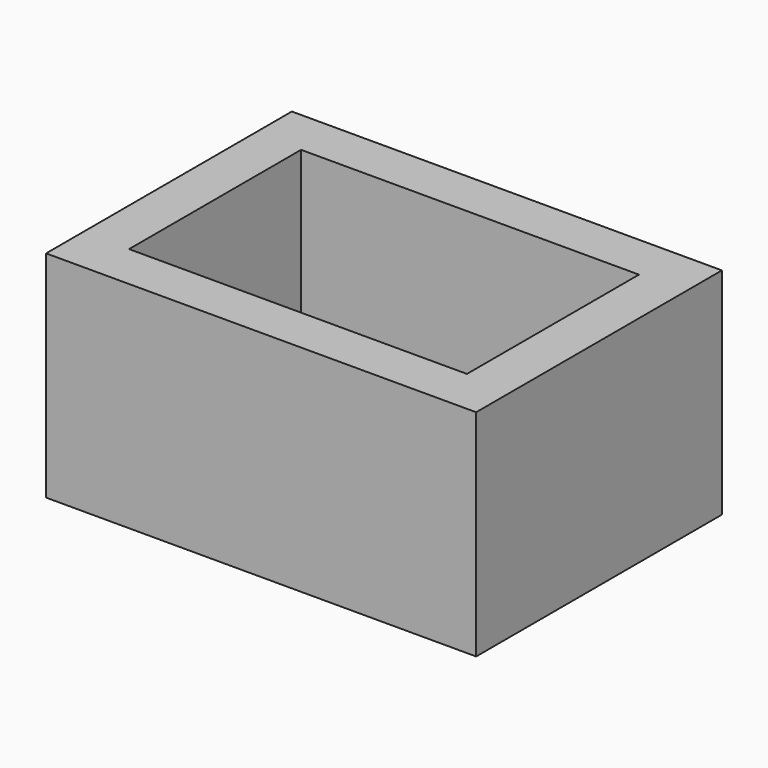
from build123d import *

# Parameters (mm, degrees)
F1_DEPTH = 88.9
F0_W     = 19.05
F0_H     = 88.9
F2_DEPTH = 88.9


with BuildPart() as f1:
    # F0 (on Top) → F1 (new body)
    with BuildSketch(Plane.XY):
        Polygon((88.9, 63.5), (-88.9, 63.5), (-88.9, 44.45), (-69.85, 44.45), (69.85, 44.45), (88.9, 44.45), align=None)
        Polygon((-69.85, -44.45), (-88.9, -44.45), (-88.9, -63.5), (88.9, -63.5), (88.9, -44.45), (69.85, -44.45), align=None)
    extrude(amount=F1_DEPTH)

    # F0 (on Top) → F2 (join)
    with BuildSketch(Plane.XY):
        with Locations((-79.375, 0)):
            Rectangle(F0_W, F0_H)
        with Locations((79.375, 0)):
            Rectangle(F0_W, F0_H)
    extrude(amount=F2_DEPTH)


solid = f1.part
